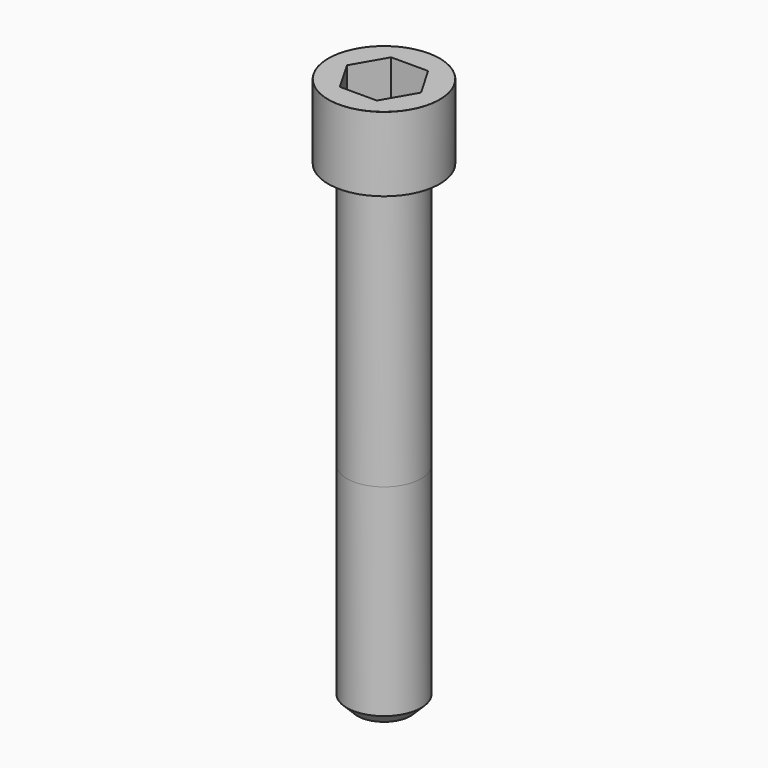
from build123d import *

# Parameters (mm, degrees)
POCKET_DEPTH = 12.07


with BuildPart() as part:
    # Sketch → Revolve (revolve)
    with BuildSketch(Plane.YZ):
        with BuildLine():
            Line((6.999, 0), (10.5, 0))
            Line((10.5, 0), (10.5, 13.97229))
            ThreePointArc((10.5, 13.97229), (10.491884, 13.991884), (10.47229, 14))
            Line((10.47229, 14), (0, 14))
            Line((0, -90), (0, 14))
            Line((5, -90), (0, -90))
            Line((7, -88), (5, -90))
            Line((7, -50), (7, -88))
            Line((6.999, 0), (7, -50))
        make_face()
    revolve(axis=Axis((0, 0, 0), (0, 0, 1)))

    # Sketch001 → Pocket (cut)
    with BuildSketch(Plane.XY.offset(14)):
        Polygon((6.968618, 0), (3.484309, 6.035), (-3.484309, 6.035), (-6.968618, 0), (-3.484309, -6.035), (3.484309, -6.035), align=None)
    extrude(amount=-POCKET_DEPTH, mode=Mode.SUBTRACT)


solid = part.part
